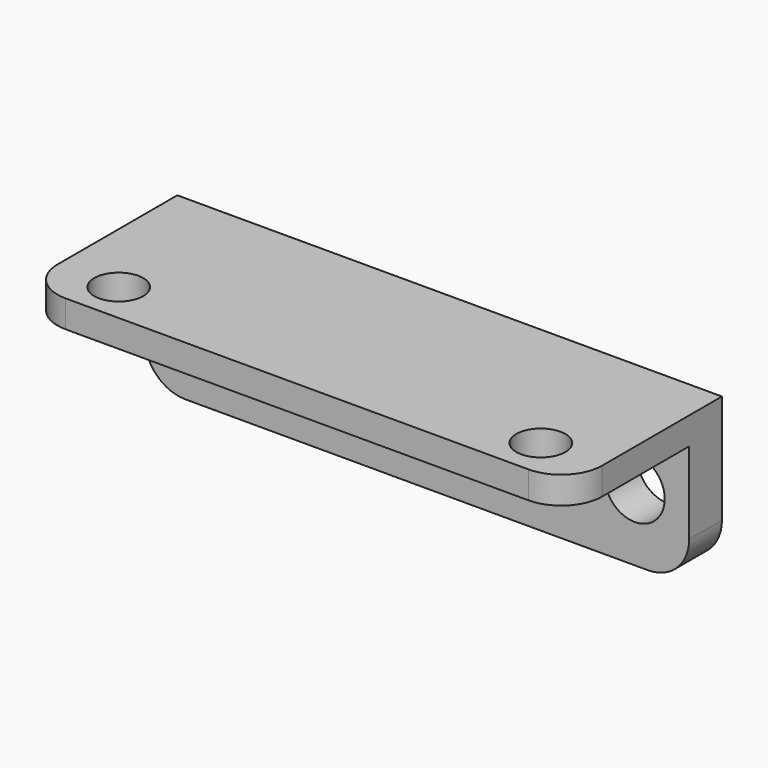
from build123d import *

# Parameters (mm, degrees)
CYLINDER001_R            = 2.2
CYLINDER001_DEPTH        = 10
ARRAY005_Y_COUNT         = 2
ARRAY005_Y_PITCH         = 32
CYLINDER008_R            = 1.8
CYLINDER008_DEPTH        = 10
ARRAY004_Y_COUNT         = 2
ARRAY004_Y_PITCH         = 31
ARRAY004_PLACEMENT_ANGLE = 90
BOX007_W                 = 2
BOX007_H                 = 40
BOX007_DEPTH             = 11
FILLET004_R              = 3
BOX006_W                 = 11
BOX006_H                 = 40
BOX006_DEPTH             = 3
FILLET003_R              = 3
CUT005_PITCH_ANGLE       = 90
CUT005_PLACEMENT_ANGLE   = -90


with BuildPart() as pcb_hole_array:
    # Cylinder001 → Cylinder001 (new body)
    with BuildSketch(Plane.XY):
        Circle(CYLINDER001_R)
    extrude(amount=CYLINDER001_DEPTH)

    # Array005 Y: pcb hole array ×2


with BuildPart() as pcb_hole_array_1:
    add(pcb_hole_array.part)
    with Locations(*[(0, i * ARRAY005_Y_PITCH, 0) for i in range(1, ARRAY005_Y_COUNT)]):
        add(pcb_hole_array.part)


with BuildPart() as pcb_hole_array_2:
    # Array005 placement: moved
    add(pcb_hole_array_1.part.moved(Location((6, 4, -3))))


with BuildPart() as fusion010:
    # Cylinder008 → Cylinder008 (new body)
    with BuildSketch(Plane.XY):
        Circle(CYLINDER008_R)
    extrude(amount=CYLINDER008_DEPTH)

    # Array004 Y: Fusion010 ×2


with BuildPart() as fusion010_1:
    add(fusion010.part)
    with Locations(*[(0, i * ARRAY004_Y_PITCH, 0) for i in range(1, ARRAY004_Y_COUNT)]):
        add(fusion010.part)


with BuildPart() as fusion010_2:
    # Array004 placement: moved
    add(fusion010_1.part.moved(Location((0, 4.5, 8))).rotate(Axis((0, 4.5, 8), (0, 1, 0)), ARRAY004_PLACEMENT_ANGLE))

    # Fusion010: union pcb hole array
    add(pcb_hole_array_2.part)


with BuildPart() as fillet004:
    # Box007 → Box007 (new body)
    with BuildSketch(Plane.XY):
        with Locations((1, 20)):
            Rectangle(BOX007_W, BOX007_H)
    extrude(amount=BOX007_DEPTH)

    # Fillet004
    fillet004_edges = [fillet004.edges().sort_by_distance(p)[0] for p in [
        (1, 0, 11),
        (1, 40, 11),
    ]]
    fillet(fillet004_edges, radius=FILLET004_R)


with BuildPart() as pcb_holder_cut:
    # Box006 → Box006 (new body)
    with BuildSketch(Plane.XY.offset(-3)):
        with Locations((5.5, 20)):
            Rectangle(BOX006_W, BOX006_H)
    extrude(amount=BOX006_DEPTH)

    # Fillet003
    fillet003_edges = [pcb_holder_cut.edges().sort_by_distance(p)[0] for p in [
        (11, 0, -1.5),
        (11, 40, -1.5),
    ]]
    fillet(fillet003_edges, radius=FILLET003_R)

    # Fusion011: union Fillet004
    add(fillet004.part)

    # Cut005: cut Fusion010
    add(fusion010_2.part, mode=Mode.SUBTRACT)


with BuildPart() as pcb_holder_cut_1:
    # Cut005 pitch: moved
    add(pcb_holder_cut.part.rotate(Axis((0, 0, 0), (0, 1, 0)), CUT005_PITCH_ANGLE))


with BuildPart() as pcb_holder_cut_2:
    # Cut005 placement: moved
    add(pcb_holder_cut_1.part.moved(Location((-32.3, 68, 64.6))).rotate(Axis((-32.3, 68, 64.6), (0, 0, 1)), CUT005_PLACEMENT_ANGLE))


solid = pcb_holder_cut_2.part
